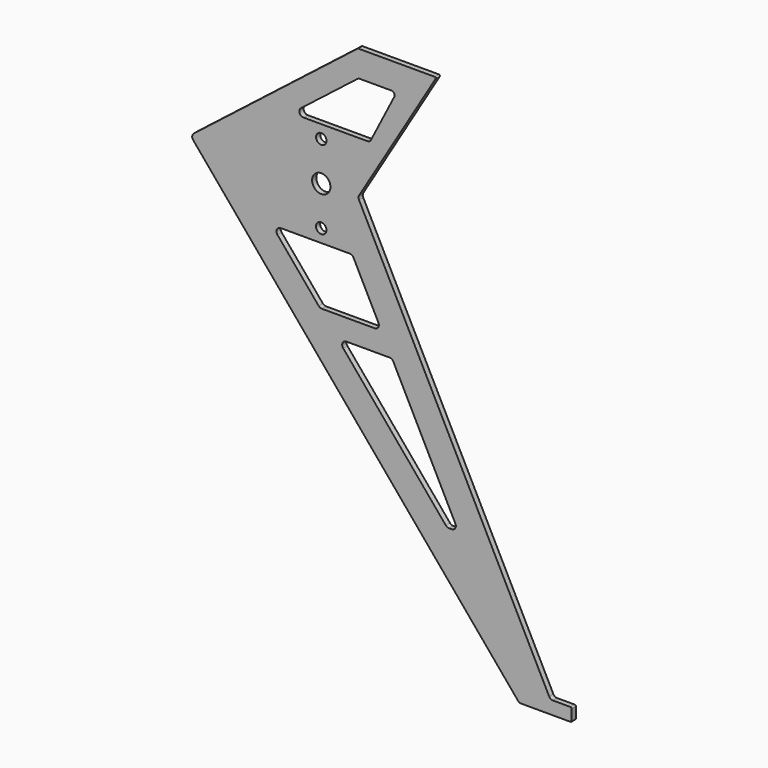
from build123d import *

# Parameters (mm, degrees)
F0_R     = 1.27
F0_R_2   = 2.2225
F1_DEPTH = 1.27


with BuildPart() as f1:
    # F0 (on Front) → F1 (new body)
    with BuildSketch(Plane.XZ):
        with BuildLine():
            Line((14.791388, 63.5), (-3.722544, 63.5))
            ThreePointArc((-3.722544, 63.5), (-3.805236, 63.486163), (-3.878918, 63.446158))
            Line((-3.878918, 63.446158), (-38.962514, 36.037098))
            Line((-38.962514, 36.037098), (-43.621762, 32.397061))
            ThreePointArc((-43.621762, 32.397061), (-44.006646, 31.703164), (-43.775246, 30.944163))
            Line((-43.775246, 30.944163), (-41.186804, 27.852871))
            Line((-41.186804, 27.852871), (35.001432, -63.136264))
            ThreePointArc((35.001432, -63.136264), (35.350553, -63.404586), (35.78041, -63.5))
            Line((35.78041, -63.5), (44.45, -63.5))
            Line((44.45, -63.5), (47.752, -63.5))
            ThreePointArc((47.752, -63.5), (47.931605, -63.425605), (48.006, -63.246))
            Line((48.006, -63.246), (48.006, -60.579))
            ThreePointArc((48.006, -60.579), (47.931605, -60.399395), (47.752, -60.325))
            Line((47.752, -60.325), (43.465528, -60.325))
            ThreePointArc((43.465528, -60.325), (42.933685, -60.174679), (42.559219, -59.768196))
            Line((42.559219, -59.768196), (-3.556335, 31.249344))
            ThreePointArc((-3.556335, 31.249344), (-3.665378, 31.744831), (-3.521239, 32.231268))
            Line((-3.521239, 32.231268), (15.009191, 63.115318))
            ThreePointArc((15.009191, 63.115318), (15.012418, 63.371145), (14.791388, 63.5))
        make_face()
        with BuildLine():
            Line((18.907663, -31.75), (18.272293, -31.75))
            ThreePointArc((18.272293, -31.75), (17.842435, -31.654586), (17.493315, -31.386264))
            Line((17.493315, -31.386264), (-7.390557, -1.668264))
            ThreePointArc((-7.390557, -1.668264), (-7.532165, -0.586142), (-6.611579, 0))
            Line((-6.611579, 0), (3.850543, 0))
            ThreePointArc((3.850543, 0), (4.382385, -0.150321), (4.756851, -0.556804))
            Line((4.756851, -0.556804), (19.813971, -30.274804))
            ThreePointArc((19.813971, -30.274804), (19.773342, -31.265842), (18.907663, -31.75))
        make_face(mode=Mode.SUBTRACT)
        with BuildLine():
            ThreePointArc((-5.801457, 19.05), (-5.269615, 18.899679), (-4.895149, 18.493196))
            Line((-4.895149, 18.493196), (1.153438, 6.555196))
            ThreePointArc((1.153438, 6.555196), (1.112808, 5.564158), (0.24713, 5.08))
            Line((0.24713, 5.08), (-12.566694, 5.08))
            ThreePointArc((-12.566694, 5.08), (-12.996552, 5.175414), (-13.345672, 5.443736))
            Line((-13.345672, 5.443736), (-23.341757, 17.381736))
            ThreePointArc((-23.341757, 17.381736), (-23.483365, 18.463858), (-22.562779, 19.05))
            Line((-22.562779, 19.05), (-5.801457, 19.05))
        make_face(mode=Mode.SUBTRACT)
        with Locations((-12.727872, 22.225)):
            Circle(F0_R, mode=Mode.SUBTRACT)
        with Locations((-12.7, 31.75)):
            Circle(F0_R_2, mode=Mode.SUBTRACT)
        with Locations((-12.7, 41.275)):
            Circle(F0_R, mode=Mode.SUBTRACT)
        with BuildLine():
            ThreePointArc((-3.962149, 56.934633), (-3.667421, 57.094651), (-3.336654, 57.15))
            Line((-3.336654, 57.15), (4.325205, 57.15))
            ThreePointArc((4.325205, 57.15), (4.975285, 56.785541), (5.003509, 56.040801))
            Line((5.003509, 56.040801), (-0.646303, 45.003068))
            ThreePointArc((-0.646303, 45.003068), (-1.020653, 44.599226), (-1.550708, 44.45))
            Line((-1.550708, 44.45), (-16.991694, 44.45))
            ThreePointArc((-16.991694, 44.45), (-17.952345, 45.135233), (-17.617189, 46.266633))
            Line((-17.617189, 46.266633), (-3.962149, 56.934633))
        make_face(mode=Mode.SUBTRACT)
    extrude(amount=F1_DEPTH)


solid = f1.part
